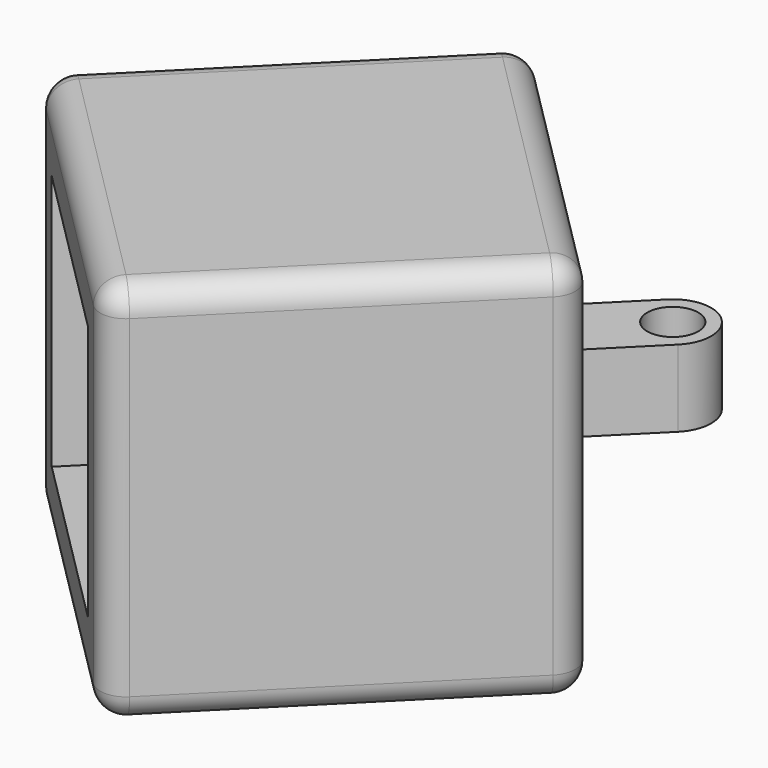
from build123d import *

# Parameters (mm, degrees)
F1_DEPTH = 30
F2_W     = 20
F2_H     = 20
F3_DEPTH = 20
F4_R     = 2
F5_W     = 6
F5_H     = 6
F6_DEPTH = 10
F7_R     = 2.9972
F8_R     = 1.9939
F9_DEPTH = 6


with BuildPart() as f1:
    # F0 (on Top) → F1 (new body)
    with BuildSketch(Plane.XY):
        Polygon((-21.213203, 21.213203), (0, 0), (21.213203, 21.213203), (0, 42.426407), align=None)
    extrude(amount=F1_DEPTH)

    # F2 (on face) → F3 (cut)
    with BuildSketch(Plane(origin=(0, 0, 0), x_dir=(0.707107, -0.707107, 0), z_dir=(-0.707107, -0.707107, 0))):
        with Locations((-15, 15)):
            Rectangle(F2_W, F2_H)
    extrude(amount=-F3_DEPTH, mode=Mode.SUBTRACT)

    # F4
    f4_edges = [f1.edges().sort_by_distance(p)[0] for p in [
        (0, 42.426407, 15),
        (-21.213203, 21.213203, 15),
        (-10.606602, 31.819805, 0),
        (-10.606602, 31.819805, 30),
        (-10.606602, 10.606602, 30),
        (10.606602, 10.606602, 30),
        (10.606602, 31.819805, 30),
        (0, 0, 15),
        (21.213203, 21.213203, 15),
        (10.606602, 10.606602, 0),
        (10.606602, 31.819805, 0),
        (-10.606602, 10.606602, 0),
    ]]
    fillet(f4_edges, radius=F4_R)

    # F5 (on face) → F6 (join)
    with BuildSketch(Plane(origin=(21.213203, 21.213203, 0), x_dir=(-0.707107, 0.707107, 0), z_dir=(0.707107, 0.707107, 0))):
        with Locations((15, 15)):
            Rectangle(F5_W, F5_H)
    extrude(amount=F6_DEPTH)

    # F7
    f7_edges = [f1.edges().sort_by_distance(p)[0] for p in [
        (19.79899, 36.769553, 15),
        (15.556349, 41.012193, 15),
    ]]
    fillet(f7_edges, radius=F7_R)

    # F8 (on face) → F9 (cut)
    with BuildSketch(Plane(origin=(0, 0, 12), x_dir=(1, 0, 0), z_dir=(0, 0, -1))):
        with Locations((15.556349, -36.773512)):
            Circle(F8_R)
    extrude(amount=-F9_DEPTH, mode=Mode.SUBTRACT)


solid = f1.part
